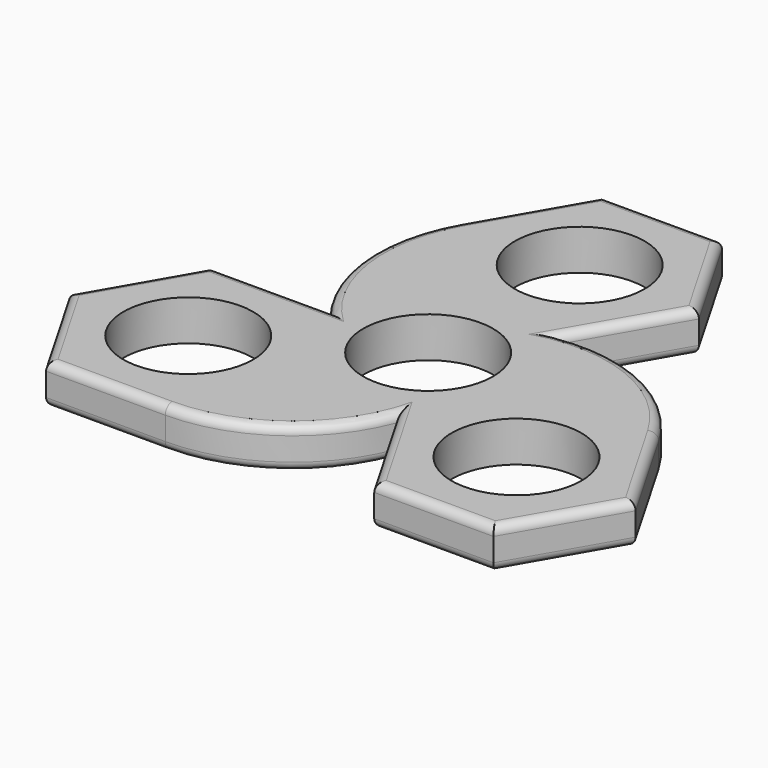
from build123d import *

# Parameters (mm, degrees)
F0_R     = 11.2
F1_DEPTH = 7
F2_R     = 1.5
F3_R     = 1.5


with BuildPart() as f1:
    # F0 (on Top) → F1 (new body)
    with BuildSketch(Plane.XY):
        with BuildLine():
            Line((7.7504207738, -16.3618978113), (11.378000875, -10.0787447675))
            ThreePointArc((11.378000875, -10.0787447675), (13.1635861375, -7.6), (14.4174494444, -4.8142654183))
            Line((14.4174494444, -4.8142654183), (18.0450295456, 1.4688876255))
            Line((18.0450295456, 1.4688876255), (38.6342470892, 1.4688876255))
            ThreePointArc((38.6342470892, 1.4688876255), (26.5584523993, 12.6016397781), (10.2946087718, 14.8930101858))
            Line((10.2946087718, 14.8930101858), (3.0394485694, 14.8930101858))
            Line((3.0394485694, 14.8930101858), (-3.0394485694, 14.8930101858))
            Line((-3.0394485694, 14.8930101858), (-10.2946087718, 14.8930101858))
            Line((-10.2946087718, 14.8930101858), (-20.5892175436, 32.7237956226))
            ThreePointArc((-20.5892175436, 32.7237956226), (-24.1925663768, 16.6994745739), (-18.0450295456, 1.4688876255))
            Line((-18.0450295456, 1.4688876255), (-7.7504207738, -16.3618978113))
            Line((-7.7504207738, -16.3618978113), (-18.0450295456, -34.1926832481))
            ThreePointArc((-18.0450295456, -34.1926832481), (-2.3658860225, -29.301114352), (7.7504207738, -16.3618978113))
        make_face()
        Circle(F0_R, mode=Mode.SUBTRACT)
        Polygon((-38.6342470892, -34.1926832481), (-18.0450295456, -34.1926832481), (-7.7504207738, -16.3618978113), (-18.0450295456, 1.4688876255), (-38.6342470892, 1.4688876255), (-48.928855861, -16.3618978113), align=None)
        with Locations((-28.3396383174, -16.3618978113)):
            Circle(F0_R, mode=Mode.SUBTRACT)
        with BuildLine():
            ThreePointArc((14.4174494444, -4.8142654183), (13.1635861375, -7.6), (11.378000875, -10.0787447675))
            Line((11.378000875, -10.0787447675), (7.7504207738, -16.3618978113))
            Line((7.7504207738, -16.3618978113), (18.0450295456, -34.1926832481))
            Line((18.0450295456, -34.1926832481), (38.6342470892, -34.1926832481))
            Line((38.6342470892, -34.1926832481), (48.928855861, -16.3618978113))
            Line((48.928855861, -16.3618978113), (38.6342470892, 1.4688876255))
            Line((38.6342470892, 1.4688876255), (18.0450295456, 1.4688876255))
            Line((18.0450295456, 1.4688876255), (14.4174494444, -4.8142654183))
        make_face()
        with Locations((28.3396383174, -16.3618978113)):
            Circle(F0_R, mode=Mode.SUBTRACT)
        Polygon((3.0394485694, 14.8930101858), (10.2946087718, 14.8930101858), (20.5892175436, 32.7237956226), (10.2946087718, 50.5545810594), (-10.2946087718, 50.5545810594), (-20.5892175436, 32.7237956226), (-10.2946087718, 14.8930101858), (-3.0394485694, 14.8930101858), align=None)
        with Locations((0, 32.7237956226)):
            Circle(F0_R, mode=Mode.SUBTRACT)
    extrude(amount=F1_DEPTH)

    # F2
    f2_edges = [f1.edges().sort_by_distance(p)[0] for p in [
        (-24.192566, 16.699475, 7),
        (-15.441913, 41.639188, 7),
        (0, 50.554581, 7),
        (15.441913, 41.639188, 7),
        (15.441913, 23.808403, 7),
        (26.558452, 12.60164, 7),
        (43.781551, -7.446505, 7),
        (43.781551, -25.277291, 7),
        (28.339638, -34.192683, 7),
        (12.897725, -25.277291, 7),
        (-2.365886, -29.301114, 7),
        (-28.339638, -34.192683, 7),
        (-43.781551, -25.277291, 7),
        (-43.781551, -7.446505, 7),
        (-28.339638, 1.468888, 7),
    ]]
    fillet(f2_edges, radius=F2_R)

    # F3
    f3_edges = [f1.edges().sort_by_distance(p)[0] for p in [
        (-28.339638, -34.192683, 0),
        (-2.365886, -29.301114, 0),
        (12.897725, -25.277291, 0),
        (28.339638, -34.192683, 0),
        (43.781551, -25.277291, 0),
        (43.781551, -7.446505, 0),
        (26.558452, 12.60164, 0),
        (15.441913, 23.808403, 0),
        (15.441913, 41.639188, 0),
        (0, 50.554581, 0),
        (-15.441913, 41.639188, 0),
        (-24.192566, 16.699475, 0),
        (-28.339638, 1.468888, 0),
        (-43.781551, -7.446505, 0),
        (-43.781551, -25.277291, 0),
    ]]
    fillet(f3_edges, radius=F3_R)


solid = f1.part
